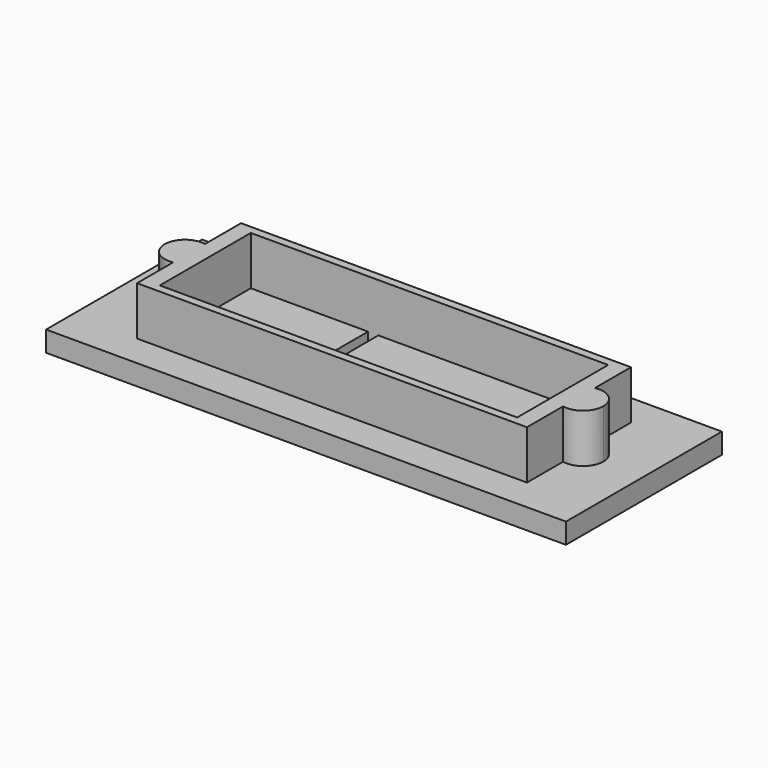
from build123d import *

# Parameters (mm, degrees)
F0_W     = 203.2
F0_H     = 76.2
F1_DEPTH = 8
F2_W     = 152.4
F2_H     = 50.8
F2_W_2   = 139.7
F2_H_2   = 44.45
F4_DEPTH = 19.05
F5_W     = 30
F5_H     = 15
F6_DEPTH = 8
F5_W_2   = 4
F5_H_2   = 20
F7_DEPTH = 8
F8_W     = 5
F8_H     = 15
F9_DEPTH = 3


with BuildPart() as f1:
    # F0 (on Top) → F1 (new body)
    with BuildSketch(Plane.XY):
        Rectangle(F0_W, F0_H)
    extrude(amount=F1_DEPTH)

    # F2 (on face) + F3 (on face) → F4 (join)
    with BuildSketch(Plane.XY.offset(8)):
        Rectangle(F2_W, F2_H)
        Rectangle(F2_W_2, F2_H_2, mode=Mode.SUBTRACT)
    with BuildSketch(Plane.XY.offset(8)):
        with BuildLine():
            Line((-76.2, -7.7771299333), (-76.2, 7.7771299333))
            ThreePointArc((-76.2, 7.7771299333), (-85.725, 0), (-76.2, -7.7771299333))
        make_face()
        with BuildLine():
            ThreePointArc((85.725, 0), (82.8076157855, 6.1483610621), (76.2, 7.7771299333))
            Line((76.2, 7.7771299333), (76.2, -7.7771299333))
            ThreePointArc((76.2, -7.7771299333), (82.8076157855, -6.1483610621), (85.725, 0))
        make_face()
    extrude(amount=F4_DEPTH)

    # F5 (on face) → F6 (cut, through all)
    with BuildSketch(Plane.XY.offset(8)):
        with Locations((47.85, -8.225)):
            Rectangle(F5_W, F5_H)
        with Locations((-45.85, -8.225)):
            Rectangle(F5_W, F5_H)
    extrude(amount=-F6_DEPTH, mode=Mode.SUBTRACT)

    # F5 (on face) → F7 (cut, through all)
    with BuildSketch(Plane.XY.offset(8)):
        with Locations((-22, 12.225)):
            Rectangle(F5_W_2, F5_H_2)
    extrude(amount=-F7_DEPTH, mode=Mode.SUBTRACT)

    # F8 (on face) → F9 (cut)
    with BuildSketch(Plane.XY.offset(8)):
        with Locations((65.35, -8.225)):
            Rectangle(F8_W, F8_H)
        with Locations((-28.35, -8.225)):
            Rectangle(F8_W, F8_H)
    extrude(amount=-F9_DEPTH, mode=Mode.SUBTRACT)


solid = f1.part
